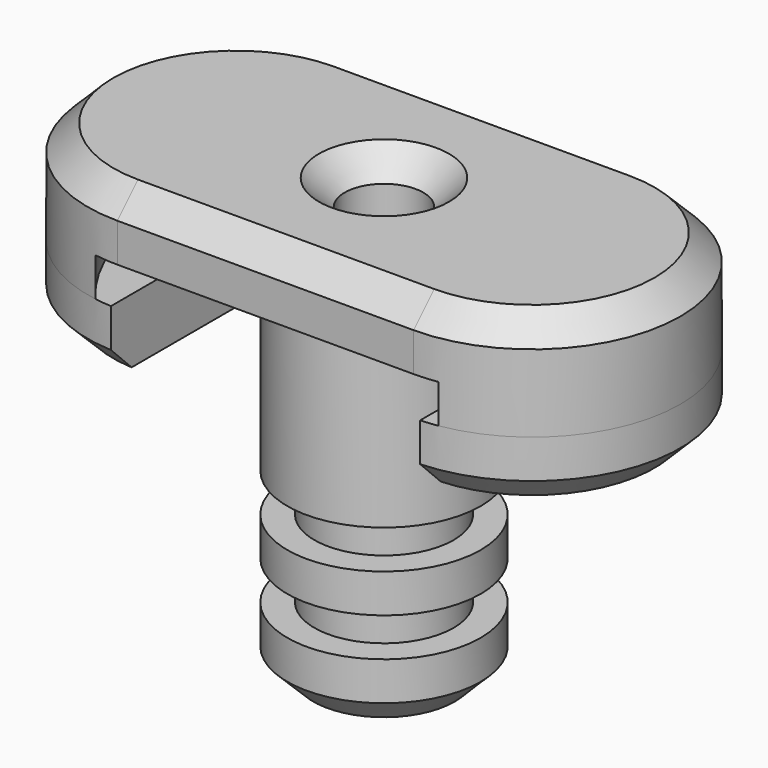
from build123d import *

# Parameters (mm, degrees)
SKETCH_R        = 7.5
PAD_DEPTH       = 5
SKETCH001_R     = 5.4
PAD001_DEPTH    = 3
SKETCH002_R     = 7.5
PAD002_DEPTH    = 3
SKETCH003_R     = 5.4
PAD003_DEPTH    = 3
SKETCH004_R     = 7.5
PAD004_DEPTH    = 15
PAD005_DEPTH    = 5
PAD006_DEPTH    = 3
PAD007_DEPTH    = 5
SKETCH008_R     = 3.05
POCKET_DEPTH    = 34.001
CHAMFER_SIZE    = 2
CHAMFER001_SIZE = 2
CHAMFER002_SIZE = 2
CHAMFER003_SIZE = 2


with BuildPart() as part:
    # Sketch → Pad (new body)
    with BuildSketch(Plane.XY):
        Circle(SKETCH_R)
    extrude(amount=PAD_DEPTH)

    # Sketch001 (on Face3 of Pad) → Pad001 (join)
    with BuildSketch(Plane.XY.offset(5)):
        Circle(SKETCH001_R)
    extrude(amount=PAD001_DEPTH)

    # Sketch002 (on Face5 of Pad001) → Pad002 (join)
    with BuildSketch(Plane.XY.offset(8)):
        Circle(SKETCH002_R)
    extrude(amount=PAD002_DEPTH)

    # Sketch003 (on Face3 of Pad002) → Pad003 (join)
    with BuildSketch(Plane.XY.offset(11)):
        Circle(SKETCH003_R)
    extrude(amount=PAD003_DEPTH)

    # Sketch004 (on Face7 of Pad003) → Pad004 (join)
    with BuildSketch(Plane.XY.offset(14)):
        Circle(SKETCH004_R)
    extrude(amount=PAD004_DEPTH)

    # Sketch005 (on Face3 of Pad004) → Pad005 (join)
    with BuildSketch(Plane.XY.offset(29)):
        with BuildLine():
            ThreePointArc((-11.5, 11.5), (-23, 0), (-11.5, -11.5))
            Line((-11.5, -11.5), (11.5, -11.5))
            ThreePointArc((11.5, -11.5), (23, 0), (11.5, 11.5))
            Line((-11.5, 11.5), (11.5, 11.5))
        make_face()
    extrude(amount=PAD005_DEPTH)

    # Sketch006 (on Face4 of Pad005) → Pad006 (join)
    with BuildSketch(Plane(origin=(0, 0, 29), x_dir=(1, 0, 0), z_dir=(0, 0, -1))):
        with BuildLine():
            ThreePointArc((13.315217, -11.355835), (23, 0), (13.315217, 11.355835))
            ThreePointArc((13.315217, -11.355835), (17.5, 0), (13.315217, 11.355835))
        make_face()
        with BuildLine():
            ThreePointArc((-13.315217, 11.355835), (-23, 0), (-13.315217, -11.355835))
            ThreePointArc((-13.315217, 11.355835), (-17.5, 0), (-13.315217, -11.355835))
        make_face()
    extrude(amount=PAD006_DEPTH)

    # Sketch007 (on Face13 of Pad006) → Pad007 (join)
    with BuildSketch(Plane(origin=(0, 0, 26), x_dir=(1, 0, 0), z_dir=(0, 0, -1))):
        with BuildLine():
            ThreePointArc((-12, 11.489125), (-23, 0), (-12, -11.489125))
            Line((-12, 11.489125), (-12, -11.489125))
        make_face()
        with BuildLine():
            Line((12, 11.489125), (12, -11.489125))
            ThreePointArc((12, -11.489125), (23, 0), (12, 11.489125))
        make_face()
    extrude(amount=PAD007_DEPTH)

    # Sketch008 → Pocket (cut, through all)
    with BuildSketch(Plane.XY.offset(34)):
        Circle(SKETCH008_R)
    extrude(amount=-POCKET_DEPTH, mode=Mode.SUBTRACT)

    # Chamfer
    chamfer_edges = [part.edges().sort_by_distance(p)[0] for p in [
        (23, 0, 21),
    ]]
    chamfer(chamfer_edges, length=CHAMFER_SIZE)

    # Chamfer001
    chamfer001_edges = [part.edges().sort_by_distance(p)[0] for p in [
        (-23, 0, 21),
    ]]
    chamfer(chamfer001_edges, length=CHAMFER001_SIZE)

    # Chamfer002
    chamfer002_edges = [part.edges().sort_by_distance(p)[0] for p in [
        (-7.5, 0, 0),
    ]]
    chamfer(chamfer002_edges, length=CHAMFER002_SIZE)

    # Chamfer003
    chamfer003_edges = [part.edges().sort_by_distance(p)[0] for p in [
        (-23, 0, 34),
        (0, 11.5, 34),
        (0, -11.5, 34),
        (23, 0, 34),
        (-3.05, 0, 34),
    ]]
    chamfer(chamfer003_edges, length=CHAMFER003_SIZE)


solid = part.part
